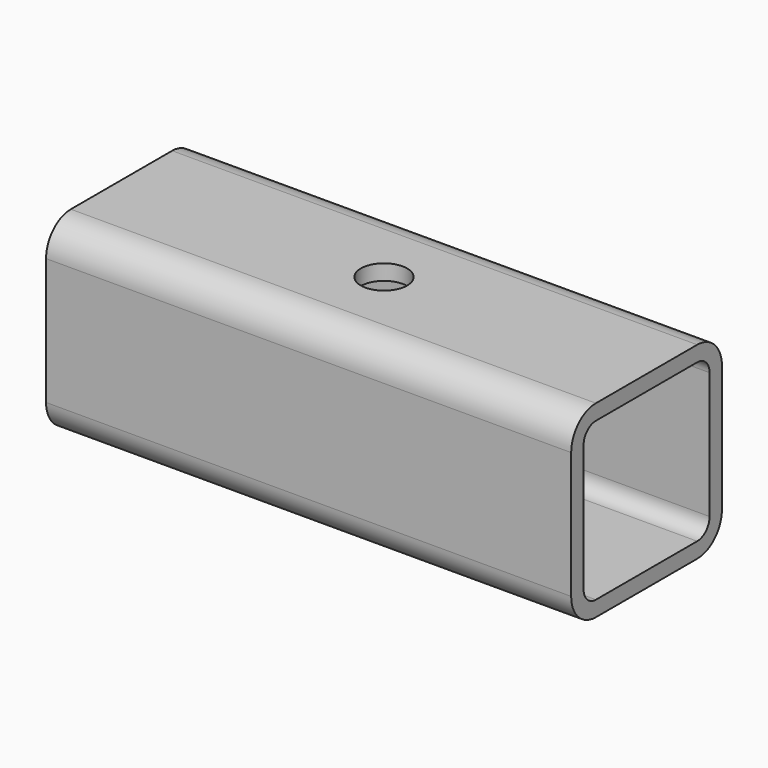
from build123d import *

# Parameters (mm, degrees)
F0_W          = 340
F0_H          = 122
F1_DEPTH      = 61
F2_R          = 20
F3_T          = -10
F4_R          = 15
F5_DEPTH      = 61.001
F5_DEPTH_BACK = 61.001


with BuildPart() as f1:
    # F0 (on Front) → F1 (new body, symmetric)
    with BuildSketch(Plane.XZ):
        Rectangle(F0_W, F0_H)
    extrude(amount=F1_DEPTH, both=True)

    # F2
    f2_edges = [f1.edges().sort_by_distance(p)[0] for p in [
        (0, 61, 61),
        (0, -61, 61),
        (0, 61, -61),
        (0, -61, -61),
    ]]
    fillet(f2_edges, radius=F2_R)

    # F3
    f3_openings = [f1.faces().sort_by_distance(p)[0] for p in [
        (170, 0, 0),
        (-170, 0, 0),
    ]]
    offset(amount=F3_T, openings=f3_openings)

    # F4 (on Top) → F5 (cut, two sides)
    with BuildSketch(Plane.XY) as f5_sk:
        Circle(F4_R)
    extrude(amount=F5_DEPTH, mode=Mode.SUBTRACT)
    extrude(f5_sk.sketch, amount=-F5_DEPTH_BACK, mode=Mode.SUBTRACT)


solid = f1.part
